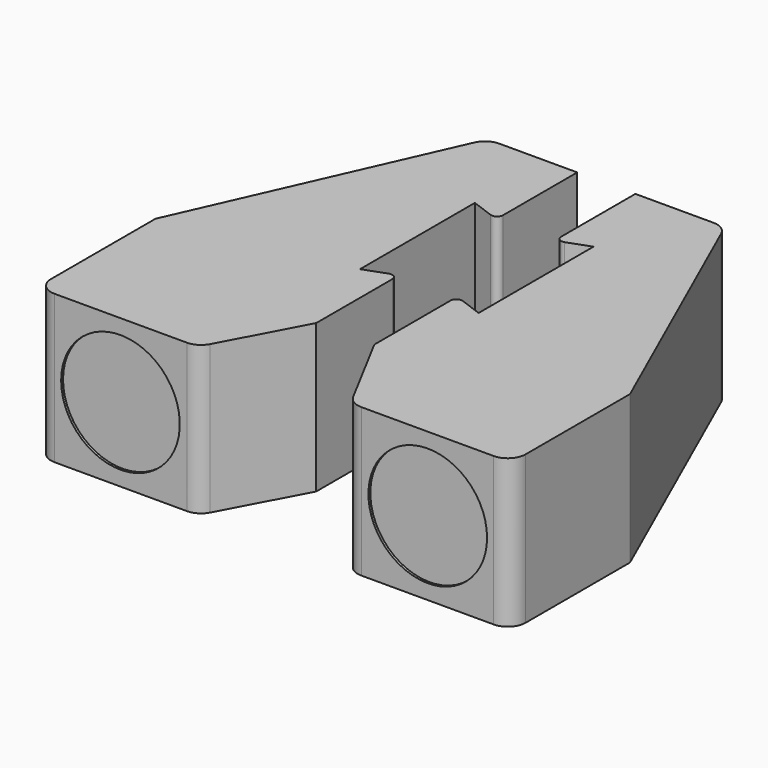
from build123d import *

# Parameters (mm, degrees)
F1_DEPTH = 25
F2_DEPTH = 15
F3_R     = 10
F4_DEPTH = 0.4
F6_DEPTH = 25
F9_R     = 1
F9_2_R   = 1
F10_R    = 3
F10_2_R  = 3


with BuildPart() as f1:
    # F0 (on Top) → F1 (new body)
    with BuildSketch(Plane.XY):
        Polygon((15, 27.5), (-15, 27.5), (-15, 12.3), (-15, -11.9), (-15, -27.5), (15, -27.5), align=None)
        Polygon((-15, 12.3), (-15, 27.5), (-20.1, 27.5), (-20.1, 10.4437518052), align=None)
        Polygon((-15, -27.5), (-15, -11.9), (-20.1, -10.0437518052), (-20.1, -27.5), align=None)
    extrude(amount=F1_DEPTH)

    # F2 (add): a face of the model
    f2_faces = [f1.faces().sort_by_distance(p)[0] for p in [
        (-2.55, -27.5, 12.5),
    ]]
    extrude(f2_faces, amount=F2_DEPTH)

    # F3 (on face) → F4 (cut)
    with BuildSketch(Plane.XZ.offset(42.5)):
        with Locations((0.9, 12.5)):
            Circle(F3_R)
    extrude(amount=-F4_DEPTH, mode=Mode.SUBTRACT)

    # F5 (on face) → F6 (cut)
    with BuildSketch(Plane.XY.offset(25)):
        Polygon((15, -17.5), (15, 27.5), (-5, 27.5), align=None)
        Polygon((-20.1, -27.5), (-20.1, -42.5), (-12.1, -42.5), align=None)
    extrude(amount=-F6_DEPTH, mode=Mode.SUBTRACT)


with BuildPart() as f8_1:
    # F8: instance of F1
    add(f1.part.mirror(Plane.YZ.offset(-25)))

    # F9
    f9_edges = [f8_1.edges().sort_by_distance(p)[0] for p in [
        (-29.9, 10.443752, 12.5),
        (-29.9, -10.043752, 12.5),
    ]]
    fillet(f9_edges, radius=F9_R)

    # F10
    f10_edges = [f8_1.edges().sort_by_distance(p)[0] for p in [
        (-65, -42.5, 12.5),
        (-45, 27.5, 12.5),
        (-37.9, -42.5, 12.5),
    ]]
    fillet(f10_edges, radius=F10_R)


with BuildPart() as f1_1:
    add(f1.part)

    # F9#2
    f9_2_edges = [f1_1.edges().sort_by_distance(p)[0] for p in [
        (-20.1, 10.443752, 12.5),
        (-20.1, -10.043752, 12.5),
    ]]
    fillet(f9_2_edges, radius=F9_2_R)

    # F10#2
    f10_2_edges = [f1_1.edges().sort_by_distance(p)[0] for p in [
        (15, -42.5, 12.5),
        (-5, 27.5, 12.5),
        (-12.1, -42.5, 12.5),
    ]]
    fillet(f10_2_edges, radius=F10_2_R)


solid = Compound([f8_1.part, f1_1.part])
